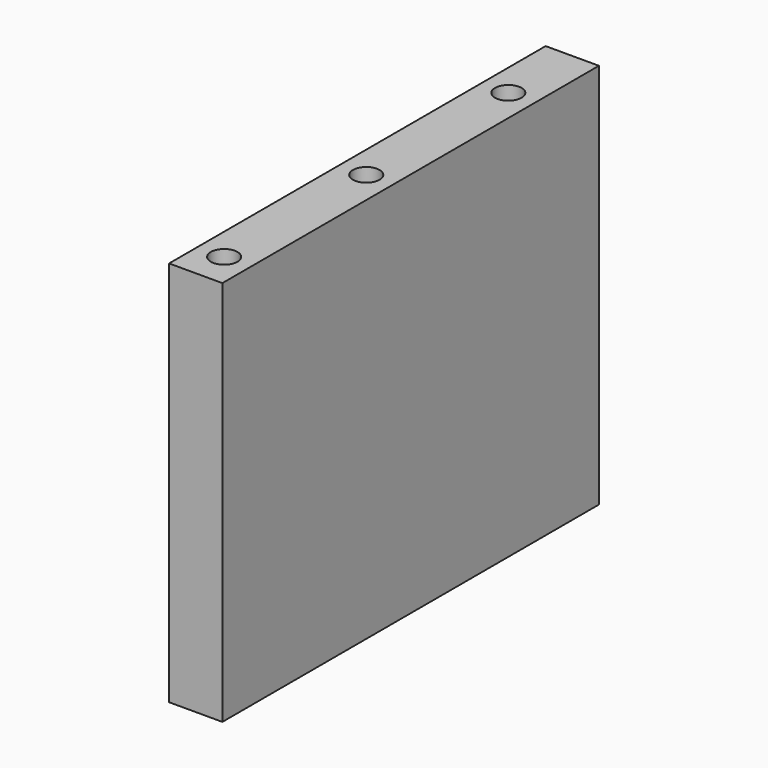
from build123d import *

# Parameters (mm, degrees)
F0_W     = 106
F0_H     = 87
F1_DEPTH = 12
F2_R     = 3
F3_DEPTH = 20
F5_DEPTH = 20
F6_DEPTH = 20
F7_R     = 2
F8_DEPTH = 10


with BuildPart() as f1:
    # F0 (on Right) → F1 (new body)
    with BuildSketch(Plane.YZ):
        with Locations((53, 43.5)):
            Rectangle(F0_W, F0_H)
    extrude(amount=F1_DEPTH)

    # F2 (on face) → F3 (cut)
    with BuildSketch(Plane.XY.offset(87)):
        with Locations((6, 88)):
            Circle(F2_R)
        with Locations((6, 48)):
            Circle(F2_R)
        with Locations((6, 8)):
            Circle(F2_R)
    extrude(amount=-F3_DEPTH, mode=Mode.SUBTRACT)

    # F2 (on face) → F5 (cut)
    with BuildSketch(Plane.XY.offset(87)):
        with Locations((6, 88)):
            Circle(F2_R)
        with Locations((6, 48)):
            Circle(F2_R)
        with Locations((6, 8)):
            Circle(F2_R)
    extrude(amount=-F5_DEPTH, mode=Mode.SUBTRACT)

    # F4 (on face) → F6 (cut)
    with BuildSketch(Plane(origin=(0, 0, 0), x_dir=(1, 0, 0), z_dir=(0, 0, -1))):
        with BuildLine():
            ThreePointArc((6, -85), (3, -88), (6, -91))
            Line((6, -91), (6, -88))
            Line((6, -88), (6, -85))
        make_face()
        with BuildLine():
            ThreePointArc((6, -5), (3, -8), (6, -11))
            Line((6, -11), (6, -5))
        make_face()
        with BuildLine():
            Line((6, -5), (6, -11))
            ThreePointArc((6, -11), (8.12132, -10.12132), (9, -8))
            ThreePointArc((9, -8), (8.12132, -5.87868), (6, -5))
        make_face()
        with BuildLine():
            ThreePointArc((6, -45), (3, -48), (6, -51))
            Line((6, -51), (6, -48))
            Line((6, -48), (6, -45))
        make_face()
        with BuildLine():
            Line((6, -48), (6, -51))
            ThreePointArc((6, -51), (8.12132, -50.12132), (9, -48))
            ThreePointArc((9, -48), (8.12132, -45.87868), (6, -45))
            Line((6, -45), (6, -48))
        make_face()
        with BuildLine():
            Line((6, -88), (6, -91))
            ThreePointArc((6, -91), (8.12132, -90.12132), (9, -88))
            Line((9, -88), (6, -88))
        make_face()
        with BuildLine():
            Line((6, -85), (6, -88))
            Line((6, -88), (9, -88))
            ThreePointArc((9, -88), (8.12132, -85.87868), (6, -85))
        make_face()
    extrude(amount=-F6_DEPTH, mode=Mode.SUBTRACT)

    # F7 (on face) → F8 (cut)
    with BuildSketch(Plane(origin=(0, 106, 0), x_dir=(-1, 0, 0), z_dir=(0, 1, 0))):
        with Locations((-6, 77)):
            Circle(F7_R)
        with Locations((-6, 10)):
            Circle(F7_R)
    extrude(amount=-F8_DEPTH, mode=Mode.SUBTRACT)


solid = f1.part
